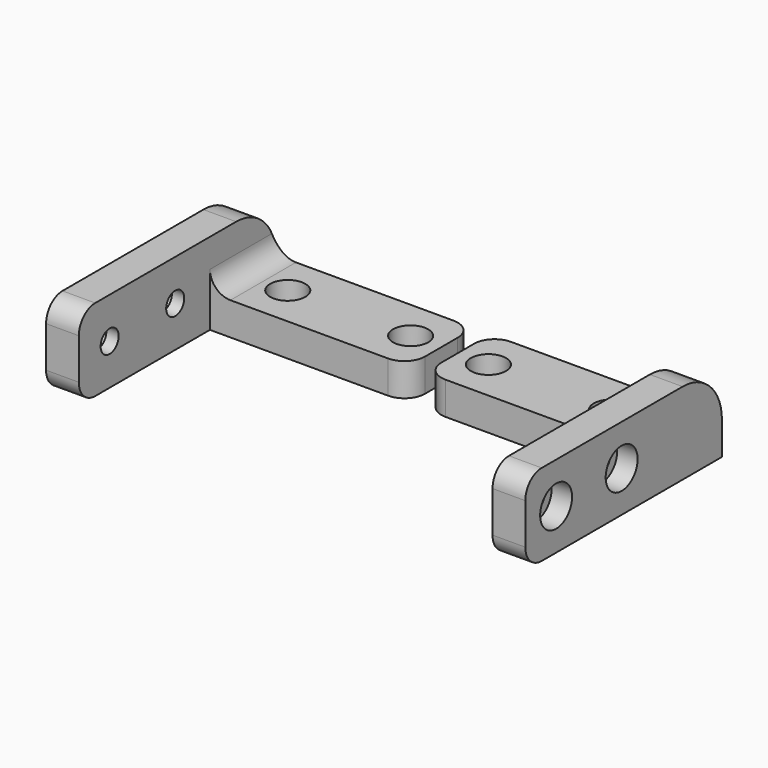
from build123d import *

# Parameters (mm, degrees)
F1_DEPTH       = 8
F2_D           = 8.6
F4_DEPTH       = 60
F6_D           = 5.5
F6_DEPTH       = 30
F6_CBORE_D     = 9.75
F6_CBORE_DEPTH = 5
F6_TIP         = 1.6523667023
F7_R           = 12
F8_R           = 5


with BuildPart() as f1:
    # F0 (on Top) → F1 (new body)
    with BuildSketch(Plane.XY):
        Polygon((50.5, 40), (50.5, 60), (2, 60), (2, 40), (17, 40), align=None)
    extrude(amount=-F1_DEPTH)

    # F2 (through all)
    with Locations(Plane.XY):
        with Locations((9.5, 50), (39.5, 50)):
            Hole(F2_D / 2)

    # F3 (on face) → F4 (join)
    with BuildSketch(Plane(origin=(0, 60, 0), x_dir=(-1, 0, 0), z_dir=(0, 1, 0))):
        Polygon((-58.5, -8), (-50.5, -8), (-50.5, 0), (-50.5, 12), (-58.5, 12), align=None)
    extrude(amount=-F4_DEPTH)

    # F6
    with Locations(Plane.YZ.offset(58.5)):
        with Locations((9.4, 2), (29.4, 2)):
            CounterBoreHole(F6_D / 2, F6_CBORE_D / 2, F6_CBORE_DEPTH, depth=F6_DEPTH)
            with Locations((0, 0, -(F6_DEPTH + F6_TIP / 2))):  # 118° drill point
                Cone(0, F6_D / 2, F6_TIP, mode=Mode.SUBTRACT)

    # F7
    f7_edges = [f1.edges().sort_by_distance(p)[0] for p in [
        (54.5, 60, 12),
    ]]
    fillet(f7_edges, radius=F7_R)

    # F8
    f8_edges = [f1.edges().sort_by_distance(p)[0] for p in [
        (54.5, 0, 12),
        (54.5, 0, -8),
        (2, 40, -4),
        (2, 60, -4),
        (50.5, 50, 0),
    ]]
    fillet(f8_edges, radius=F8_R)


with BuildPart() as f9_1:
    # F9: instance of F1
    add(f1.part.mirror(Plane.YZ))


solid = Compound([f1.part, f9_1.part])
